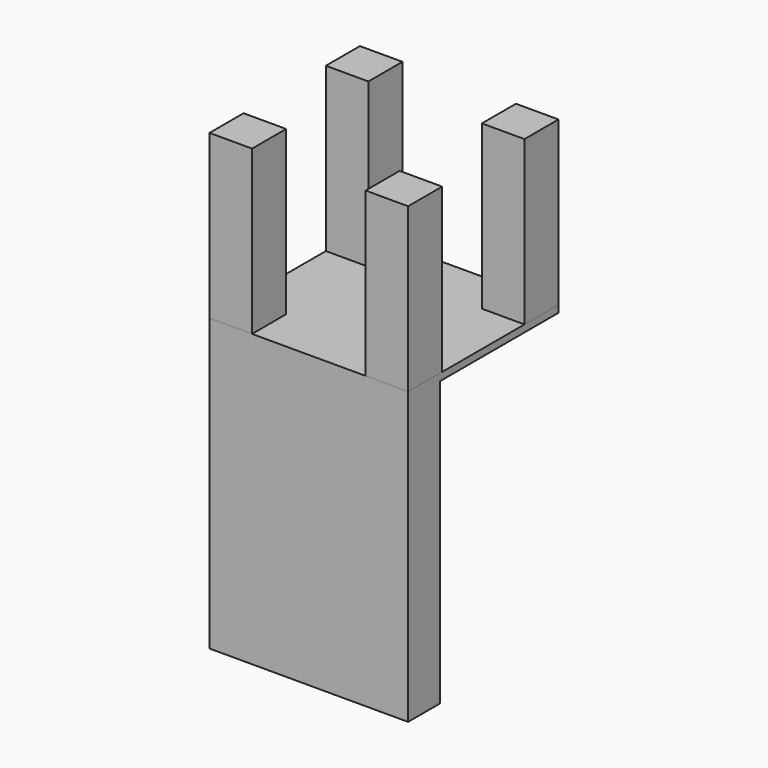
from build123d import *

# Parameters (mm, degrees)
F0_W     = 6
F0_H     = 6
F1_DEPTH = 23
F2_W     = 28
F2_H     = 26.5
F3_DEPTH = 1
F4_W     = 28
F4_H     = 5.598342
F5_DEPTH = 40


with BuildPart() as f1:
    # F0 (on Top) → F1 (new body)
    with BuildSketch(Plane.XY):
        with Locations((3, 3)):
            Rectangle(F0_W, F0_H)
        with Locations((3, 23.5)):
            Rectangle(F0_W, F0_H)
        with Locations((25, 3)):
            Rectangle(F0_W, F0_H)
        with Locations((25, 23.5)):
            Rectangle(F0_W, F0_H)
    extrude(amount=F1_DEPTH)


with BuildPart() as f3:
    # F2 (on Top) → F3 (new body)
    with BuildSketch(Plane.XY):
        with Locations((14, 13.25)):
            Rectangle(F2_W, F2_H)
    extrude(amount=-F3_DEPTH)

    # F4 (on face) → F5 (join)
    with BuildSketch(Plane(origin=(0, 0, -1), x_dir=(1, 0, 0), z_dir=(0, 0, -1))):
        with Locations((14, -2.799171)):
            Rectangle(F4_W, F4_H)
    extrude(amount=F5_DEPTH)


solid = Compound([f1.part, f3.part])
